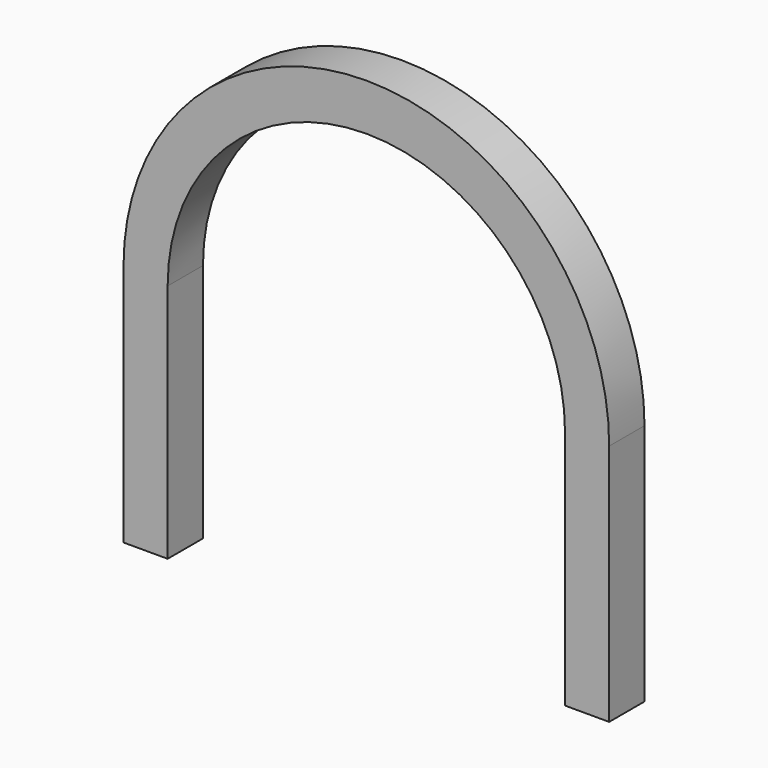
from build123d import *

# Parameters (mm, degrees)
F1_DEPTH = 25.4


with BuildPart() as f1:
    # F0 (on Front) → F1 (new body)
    with BuildSketch(Plane.XZ):
        with BuildLine():
            Line((139.7, -139.7), (139.7, 0))
            ThreePointArc((139.7, 0), (0, 139.7), (-139.7, 0))
            Line((-139.7, 0), (-139.7, -139.7))
            Line((-139.7, -139.7), (-114.3, -139.7))
            Line((-114.3, -139.7), (-114.3, -1.509623))
            ThreePointArc((-114.3, -1.509623), (0, 112.790377), (114.3, -1.509623))
            Line((114.3, -1.509623), (114.3, -139.7))
            Line((114.3, -139.7), (139.7, -139.7))
        make_face()
    extrude(amount=F1_DEPTH)


solid = f1.part
